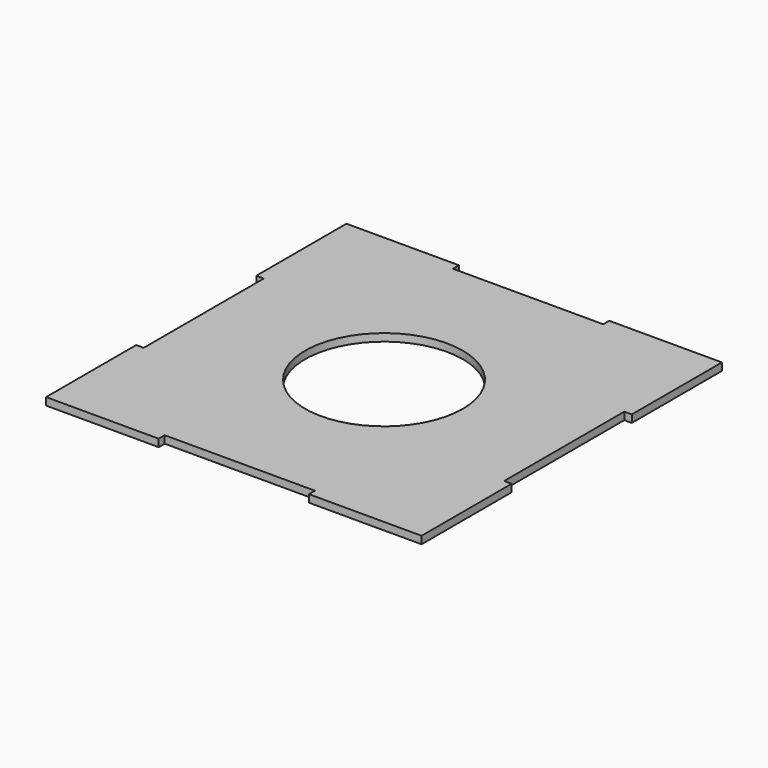
from build123d import *

# Parameters (mm, degrees)
F0_W     = 250
F0_H     = 250
F0_R     = 52.5
F1_DEPTH = 5
F3_DEPTH = 5.001


with BuildPart() as f1:
    # F0 (on Top) → F1 (new body)
    with BuildSketch(Plane.XY):
        Rectangle(F0_W, F0_H)
        Circle(F0_R, mode=Mode.SUBTRACT)
    extrude(amount=F1_DEPTH)

    # F2 (on face) → F3 (cut, through all)
    with BuildSketch(Plane.XY.offset(5)):
        Polygon((0, 125), (-50, 125), (-50, 120), (0, 120), (50, 120), (50, 125), align=None)
        Polygon((-120, 50), (-125, 50), (-125, 0), (-125, -50), (-120, -50), (-120, 0), align=None)
        Polygon((-50, -120), (-50, -125), (0, -125), (50, -125), (50, -120), (0, -120), align=None)
        Polygon((120, -50), (125, -50), (125, 0), (125, 50), (120, 50), (120, 0), align=None)
    extrude(amount=-F3_DEPTH, mode=Mode.SUBTRACT)


solid = f1.part
